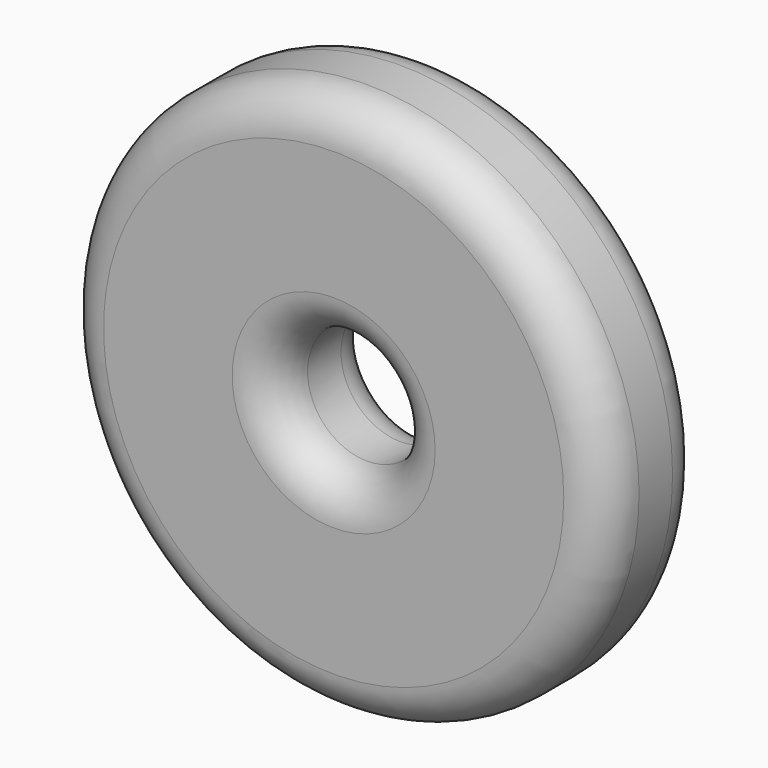
from build123d import *

# Parameters (mm, degrees)
F0_R     = 6.5
F0_R_2   = 1.425
F1_DEPTH = 3
F2_R     = 1
F3_R     = 1
F4_R     = 1
F5_R     = 1


with BuildPart() as f1:
    # F0 (on Front) → F1 (new body)
    with BuildSketch(Plane.XZ):
        Circle(F0_R)
        Circle(F0_R_2, mode=Mode.SUBTRACT)
    extrude(amount=F1_DEPTH)

    # F2
    f2_edges = [f1.edges().sort_by_distance(p)[0] for p in [
        (-1.425, -3, 0),
    ]]
    fillet(f2_edges, radius=F2_R)

    # F3
    f3_edges = [f1.edges().sort_by_distance(p)[0] for p in [
        (-1.425, 0, 0),
    ]]
    fillet(f3_edges, radius=F3_R)

    # F4
    f4_edges = [f1.edges().sort_by_distance(p)[0] for p in [
        (-6.5, 0, 0),
    ]]
    fillet(f4_edges, radius=F4_R)

    # F5
    f5_edges = [f1.edges().sort_by_distance(p)[0] for p in [
        (-6.5, -3, 0),
    ]]
    fillet(f5_edges, radius=F5_R)


solid = f1.part
